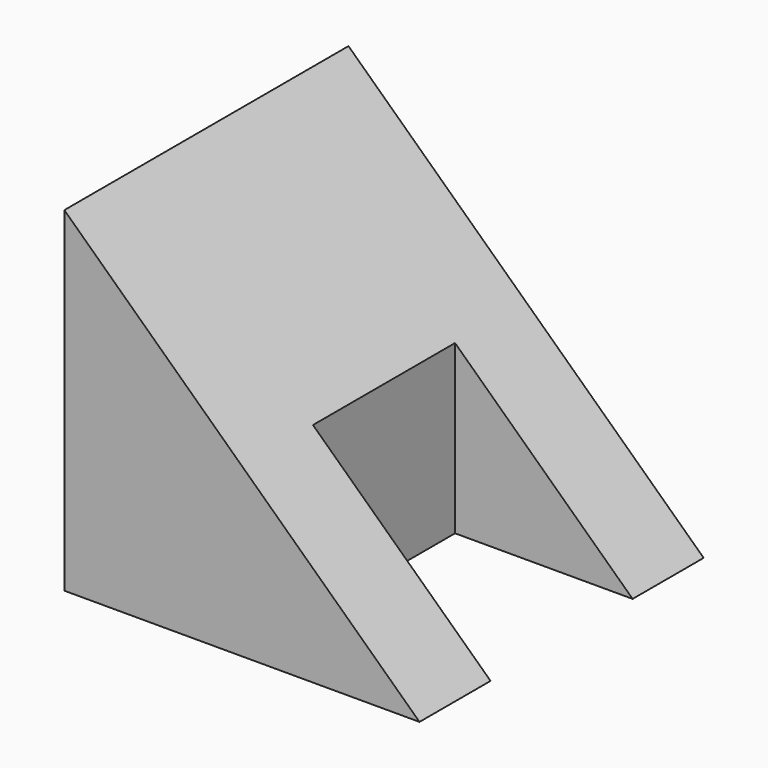
from build123d import *

# Parameters (mm, degrees)
F1_DEPTH = 25.4
F3_START = -6.35
F3_DEPTH = 12.7


with BuildPart() as f1:
    # F0 (on Front) → F1 (new body)
    with BuildSketch(Plane.XZ):
        Polygon((0, 23.9633341665), (0, 0), (25.4, 0), align=None)
    extrude(amount=F1_DEPTH)

    # F2 (on face) → F3 (cut)
    with BuildSketch(Plane.XZ.offset(25.4).offset(F3_START)):
        Polygon((25.4, 0), (12.7, 11.9816670832), (12.7, 0), align=None)
    extrude(amount=-F3_DEPTH, mode=Mode.SUBTRACT)


solid = f1.part
